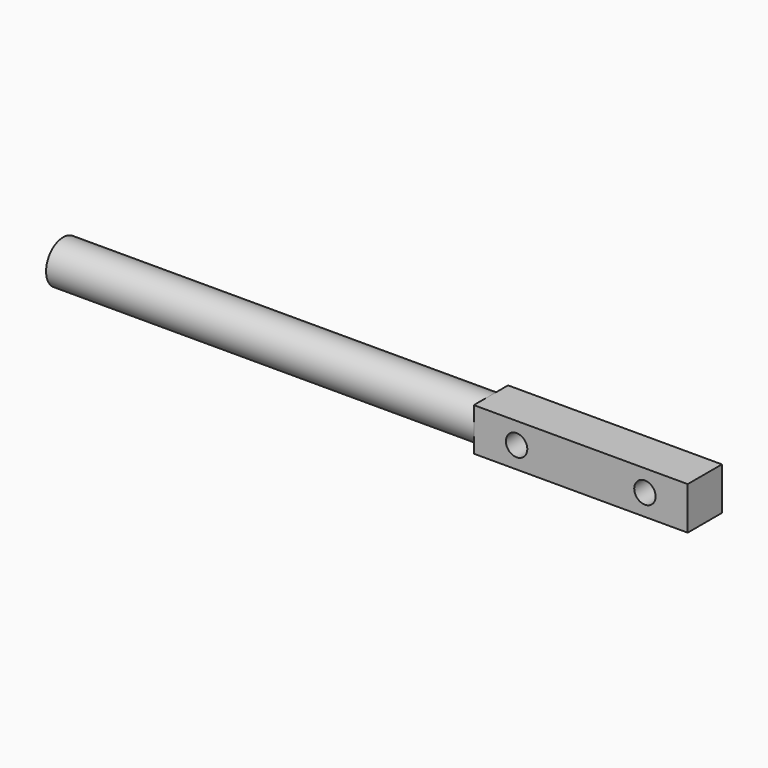
from build123d import *

# Parameters (mm, degrees)
F0_R     = 0.25
F1_DEPTH = 5
F3_DEPTH = 2.5
F4_R     = 0.125
F5_DEPTH = 25


with BuildPart() as f1:
    # F0 (on Right) → F1 (new body)
    with BuildSketch(Plane.YZ):
        Circle(F0_R)
    extrude(amount=F1_DEPTH)

    # F2 (on face) → F3 (join)
    with BuildSketch(Plane.YZ.offset(5)):
        with BuildLine():
            Line((0.25, -0.25), (0.25, 0))
            ThreePointArc((0.25, 0), (0.176777, -0.176777), (0, -0.25))
            Line((0, -0.25), (0.25, -0.25))
        make_face()
        with BuildLine():
            Line((0.25, 0.25), (0, 0.25))
            ThreePointArc((0, 0.25), (0.176777, 0.176777), (0.25, 0))
            Line((0.25, 0), (0.25, 0.25))
        make_face()
        with BuildLine():
            ThreePointArc((0.25, 0), (0.176777, 0.176777), (0, 0.25))
            ThreePointArc((0, 0.25), (-0.176777, 0.176777), (-0.25, 0))
            ThreePointArc((-0.25, 0), (-0.176777, -0.176777), (0, -0.25))
            ThreePointArc((0, -0.25), (0.176777, -0.176777), (0.25, 0))
        make_face()
        with BuildLine():
            Line((0, 0.25), (-0.25, 0.25))
            Line((-0.25, 0.25), (-0.25, 0))
            ThreePointArc((-0.25, 0), (-0.176777, 0.176777), (0, 0.25))
        make_face()
        with BuildLine():
            ThreePointArc((0, -0.25), (-0.176777, -0.176777), (-0.25, 0))
            Line((-0.25, 0), (-0.25, -0.25))
            Line((-0.25, -0.25), (0, -0.25))
        make_face()
    extrude(amount=F3_DEPTH)

    # F4 (on face) → F5 (cut)
    with BuildSketch(Plane(origin=(0, 0.25, 0), x_dir=(-1, 0, 0), z_dir=(0, 1, 0))):
        with Locations((-7, 0)):
            Circle(F4_R)
        with Locations((-5.5, 0)):
            Circle(F4_R)
    extrude(amount=-F5_DEPTH, mode=Mode.SUBTRACT)


solid = f1.part
